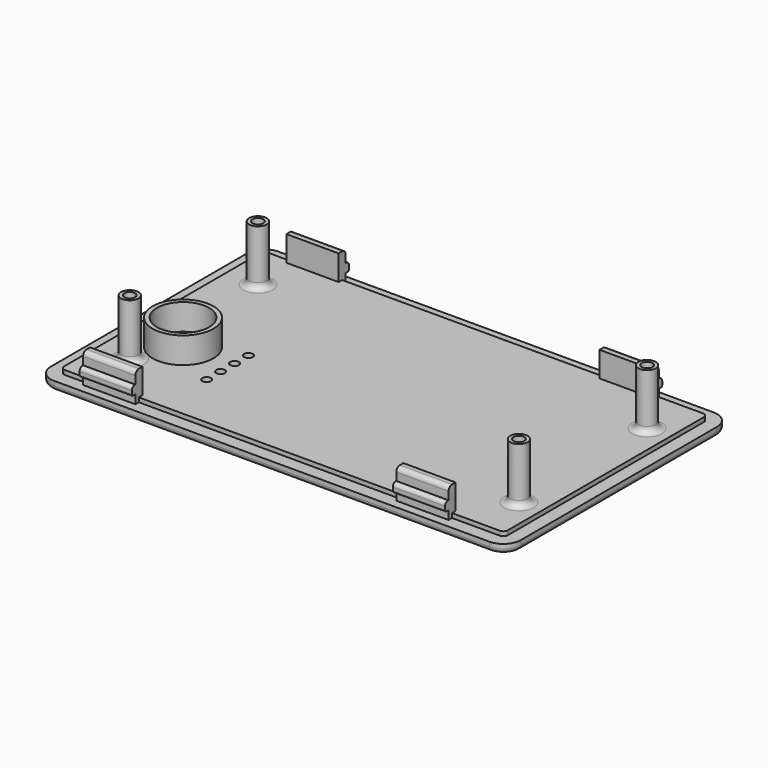
from build123d import *

# Parameters (mm, degrees)
SKETCH_W        = 108
SKETCH_H        = 64.4
PAD_DEPTH       = 2
SKETCH001_W     = 102
SKETCH001_H     = 58.4
PAD001_DEPTH    = 1
SKETCH002_R     = 2
PAD002_DEPTH    = 12.8
SKETCH003_R     = 1.25
POCKET_DEPTH    = 4
SKETCH004_W     = 12
SKETCH004_H     = 2
PAD003_DEPTH    = 6.8
SKETCH005_W     = 12
SKETCH005_H     = 2
PAD004_DEPTH    = 1
SKETCH006_W     = 12
SKETCH006_H     = 2
PAD005_DEPTH    = 1
FILLET_R        = 4
FILLET001_R     = 1
FILLET002_R     = 1
FILLET003_R     = 0.8
FILLET004_R     = 0.4
FILLET005_R     = 1
SKETCH007_R     = 1.5
SKETCH007_R_2   = 1
SKETCH007_R_3   = 0.5
POCKET001_DEPTH = 3.001
SKETCH008_R     = 7
PAD006_DEPTH    = 6
SKETCH009_R     = 6
POCKET002_DEPTH = 6
FILLET006_R     = 1.4


with BuildPart() as part:
    # Sketch → Pad (new body)
    with BuildSketch(Plane.XY):
        Rectangle(SKETCH_W, SKETCH_H)
    extrude(amount=PAD_DEPTH)

    # Sketch001 (on Face6 of Pad) → Pad001 (join)
    with BuildSketch(Plane.XY.offset(2)):
        Rectangle(SKETCH001_W, SKETCH001_H)
    extrude(amount=PAD001_DEPTH)

    # Sketch002 (on Face11 of Pad001) → Pad002 (join)
    with BuildSketch(Plane.XY.offset(3)):
        with Locations((-43.71, 18.4)):
            Circle(SKETCH002_R)
        with Locations((45.75, 18.4)):
            Circle(SKETCH002_R)
        with Locations((-43.71, -18.425)):
            Circle(SKETCH002_R)
        with Locations((45.75, -18.425)):
            Circle(SKETCH002_R)
    extrude(amount=PAD002_DEPTH)

    # Sketch003 → Pocket (cut)
    with BuildSketch(Plane.XY.offset(16.8)):
        with Locations((-43.71, 18.4)):
            Circle(SKETCH003_R)
        with Locations((45.75, 18.4)):
            Circle(SKETCH003_R)
        with Locations((45.75, -18.425)):
            Circle(SKETCH003_R)
        with Locations((-43.71, -18.425)):
            Circle(SKETCH003_R)
    extrude(amount=-POCKET_DEPTH, mode=Mode.SUBTRACT)

    # Sketch004 (on Face11 of Pocket) → Pad003 (join)
    with BuildSketch(Plane.XY.offset(2)):
        with Locations((-39, 29.2)):
            Rectangle(SKETCH004_W, SKETCH004_H)
        with Locations((33, 29.2)):
            Rectangle(SKETCH004_W, SKETCH004_H)
        with Locations((-39, -29.2)):
            Rectangle(SKETCH004_W, SKETCH004_H)
        with Locations((33, -29.2)):
            Rectangle(SKETCH004_W, SKETCH004_H)
    extrude(amount=PAD003_DEPTH)

    # Sketch005 (on Face19 of Pad003) → Pad004 (join)
    with BuildSketch(Plane.XZ.offset(30.2)):
        with Locations((33, 5)):
            Rectangle(SKETCH005_W, SKETCH005_H)
        with Locations((-39, 5)):
            Rectangle(SKETCH005_W, SKETCH005_H)
    extrude(amount=PAD004_DEPTH)

    # Sketch006 → Pad005 (join)
    with BuildSketch(Plane(origin=(0, 30.2, 0), x_dir=(-1, 0, 0), z_dir=(0, 1, 0))):
        with Locations((-33, 5)):
            Rectangle(SKETCH006_W, SKETCH006_H)
        with Locations((39, 5)):
            Rectangle(SKETCH006_W, SKETCH006_H)
    extrude(amount=PAD005_DEPTH)

    # Fillet
    fillet_edges = [part.edges().sort_by_distance(p)[0] for p in [
        (-54, 32.2, 1),
        (54, 32.2, 1),
        (-54, -32.2, 1),
        (54, -32.2, 1),
    ]]
    fillet(fillet_edges, radius=FILLET_R)

    # Fillet001
    fillet001_edges = [part.edges().sort_by_distance(p)[0] for p in [
        (-51, 29.2, 2.5),
        (-51, -29.2, 2.5),
        (51, -29.2, 2.5),
        (51, 29.2, 2.5),
    ]]
    fillet(fillet001_edges, radius=FILLET001_R)

    # Fillet002
    fillet002_edges = [part.edges().sort_by_distance(p)[0] for p in [
        (-39, -30.2, 8.8),
        (33, -30.2, 8.8),
        (33, 30.2, 8.8),
        (-39, 30.2, 8.8),
    ]]
    fillet(fillet002_edges, radius=FILLET002_R)

    # Fillet003
    fillet003_edges = [part.edges().sort_by_distance(p)[0] for p in [
        (-39, 31.2, 6),
        (33, 31.2, 6),
        (-39, -31.2, 6),
        (33, -31.2, 6),
    ]]
    fillet(fillet003_edges, radius=FILLET003_R)

    # Fillet004
    fillet004_edges = [part.edges().sort_by_distance(p)[0] for p in [
        (33, -31.2, 4),
        (-39, -31.2, 4),
        (-39, 31.2, 4),
        (33, 31.2, 4),
    ]]
    fillet(fillet004_edges, radius=FILLET004_R)

    # Fillet005
    fillet005_edges = [part.edges().sort_by_distance(p)[0] for p in [
        (0, -32.2, 0),
    ]]
    fillet(fillet005_edges, radius=FILLET005_R)

    # Sketch007 (on Face43 of Fillet005) → Pocket001 (cut, through all)
    with BuildSketch(Plane.XY.offset(3)):
        with Locations((-39, -9)):
            Circle(SKETCH007_R)
        with Locations((-27.8, -4.2)):
            Circle(SKETCH007_R_2)
        with Locations((-27.8, -8.2)):
            Circle(SKETCH007_R_2)
        with Locations((-27.8, -12.2)):
            Circle(SKETCH007_R_2)
        with Locations((-27.8, -16.2)):
            Circle(SKETCH007_R_2)
        with Locations((-47.56, 6.08)):
            Circle(SKETCH007_R_3)
        with Locations((-41.474874, -6.525126)):
            Circle(SKETCH007_R_2)
        with Locations((-36.525126, -6.525126)):
            Circle(SKETCH007_R_2)
        with Locations((-36.525126, -11.474874)):
            Circle(SKETCH007_R_2)
        with Locations((-41.474874, -11.474874)):
            Circle(SKETCH007_R_2)
    extrude(amount=-POCKET001_DEPTH, mode=Mode.SUBTRACT)

    # Sketch008 (on Face53 of Pocket001) → Pad006 (join)
    with BuildSketch(Plane.XY.offset(3)):
        with Locations((-39, -9)):
            Circle(SKETCH008_R)
    extrude(amount=PAD006_DEPTH)

    # Sketch009 (on Face108 of Pad006) → Pocket002 (cut)
    with BuildSketch(Plane.XY.offset(9)):
        with Locations((-39, -9)):
            Circle(SKETCH009_R)
    extrude(amount=-POCKET002_DEPTH, mode=Mode.SUBTRACT)

    # Fillet006
    fillet006_edges = [part.edges().sort_by_distance(p)[0] for p in [
        (-45.71, -18.425, 3),
        (-45.71, 18.4, 3),
        (43.75, 18.4, 3),
        (43.75, -18.425, 3),
    ]]
    fillet(fillet006_edges, radius=FILLET006_R)


solid = part.part
